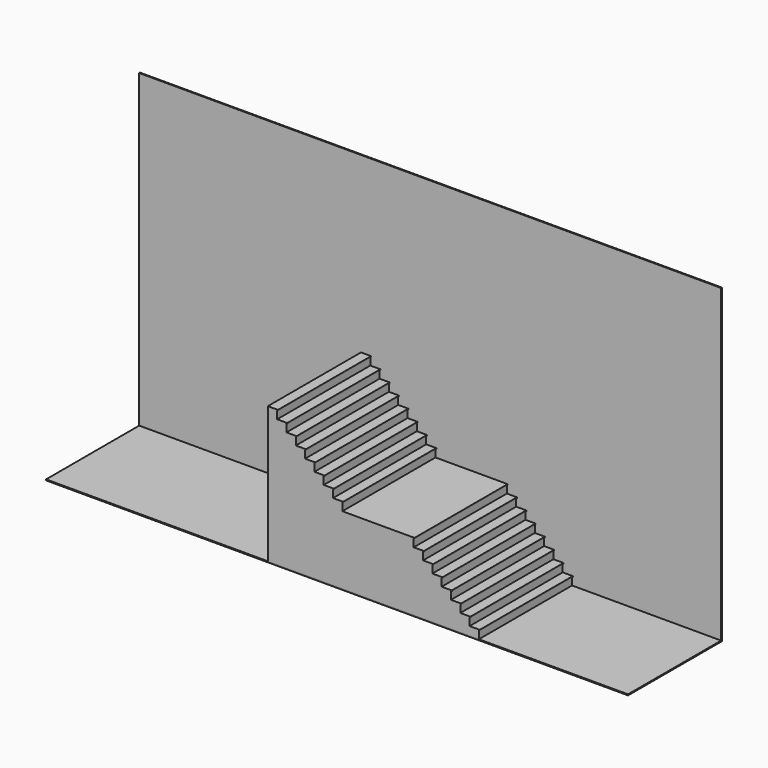
from build123d import *

# Parameters (mm, degrees)
F1_DEPTH = 3000
F2_W     = 15000
F2_H     = 8000
F3_DEPTH = 25
F4_W     = 15000
F4_H     = 3025
F5_DEPTH = 25


with BuildPart() as f1:
    # F0 (on Front) → F1 (new body)
    with BuildSketch(Plane.XZ):
        Polygon((260, 0), (0, 0), (0, -3520), (5440, -3520), (5440, -3320), (5460, -3320), (5460, -3300), (5200, -3300), (5200, -3100), (5220, -3100), (5220, -3080), (4960, -3080), (4960, -2880), (4980, -2880), (4980, -2860), (4720, -2860), (4720, -2660), (4740, -2660), (4740, -2640), (4480, -2640), (4480, -2440), (4500, -2440), (4500, -2420), (4240, -2420), (4240, -2220), (4260, -2220), (4260, -2200), (4000, -2200), (4000, -2000), (4020, -2000), (4020, -1980), (3760, -1980), (3760, -1780), (3780, -1780), (3780, -1760), (3520, -1760), (1920, -1760), (1920, -1560), (1940, -1560), (1940, -1540), (1680, -1540), (1680, -1340), (1700, -1340), (1700, -1320), (1440, -1320), (1440, -1120), (1460, -1120), (1460, -1100), (1200, -1100), (1200, -900), (1220, -900), (1220, -880), (960, -880), (960, -680), (980, -680), (980, -660), (720, -660), (720, -460), (740, -460), (740, -440), (480, -440), (480, -240), (500, -240), (500, -220), (240, -220), (240, -20), (260, -20), align=None)
    extrude(amount=F1_DEPTH)


with BuildPart() as f3:
    # F2 (on face) → F3 (new body)
    with BuildSketch(Plane(origin=(0, 0, 0), x_dir=(-1, 0, 0), z_dir=(0, 1, 0))):
        with Locations((-1783.230782, 480)):
            Rectangle(F2_W, F2_H)
    extrude(amount=F3_DEPTH)


with BuildPart() as f5:
    # F4 (on face) → F5 (new body)
    with BuildSketch(Plane(origin=(0, 0, -3520), x_dir=(1, 0, 0), z_dir=(0, 0, -1))):
        with Locations((1783.230782, 1487.5)):
            Rectangle(F4_W, F4_H)
    extrude(amount=F5_DEPTH)


solid = Compound([f1.part, f3.part, f5.part])
